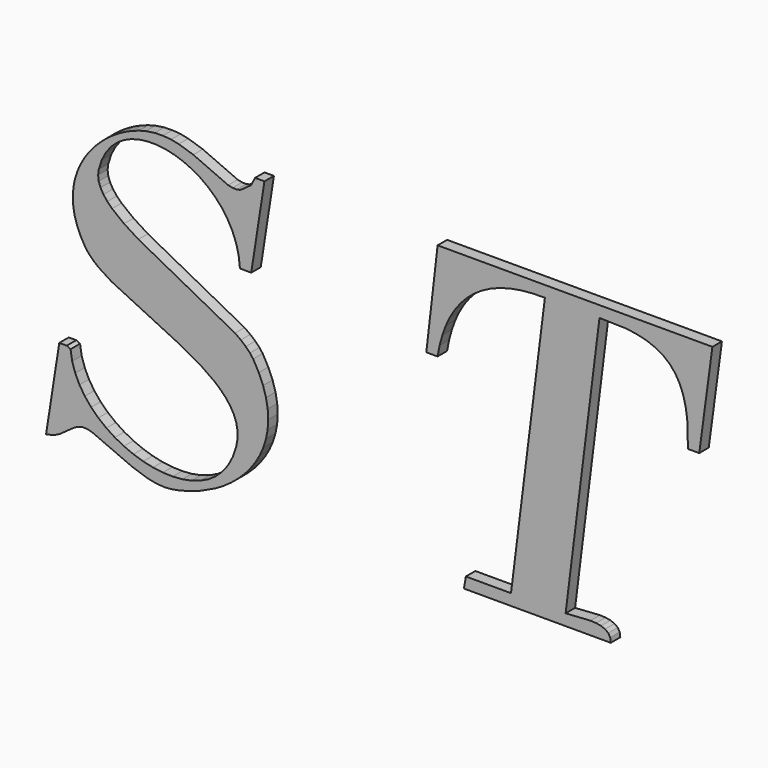
from build123d import *

# Parameters (mm, degrees)
F1_DEPTH = 0.5


with BuildPart() as f1:
    # F0 (on Front) → F1 (new body)
    with BuildSketch(Plane.XZ):
        Polygon((-0.842776, 2.838237), (-0.288454, 6.401714), (-0.684084, 6.401714), (-0.842531, 6.08482), (-1.159181, 5.84727), (-1.29883, 5.757671), (-1.455324, 5.719097), (-1.628298, 5.724834), (-1.817629, 5.767681), (-3.283449, 6.414409), (-3.892092, 6.61082), (-4.217653, 6.673931), (-4.557375, 6.704449), (-4.910768, 6.695171), (-5.277589, 6.639263), (-5.566042, 6.562725), (-5.855715, 6.459331), (-6.143556, 6.330303), (-6.426637, 6.17686), (-6.701784, 6.000591), (-6.966066, 5.802593), (-7.216311, 5.584209), (-7.449465, 5.346904), (-7.662721, 5.091655), (-7.852663, 4.820171), (-8.016603, 4.53355), (-8.151247, 4.233135), (-8.253786, 3.920391), (-8.320803, 3.596416), (-8.349611, 3.262554), (-8.337038, 2.920147), (-8.280031, 2.570659), (-8.175417, 2.215068), (-8.020387, 1.855205), (-7.811769, 1.491924), (-7.665041, 1.30186), (-7.479006, 1.118267), (-7.257448, 0.940288), (-6.723757, 0.597393), (-3.962038, -0.742329), (-2.950686, -1.30019), (-2.369631, -1.709614), (-2.118776, -1.928486), (-1.899904, -2.1581), (-1.716677, -2.399434), (-1.573244, -2.65334), (-1.473513, -2.920796), (-1.421511, -3.2029), (-1.420901, -3.500386), (-1.475954, -3.814595), (-1.620363, -4.23769), (-1.814821, -4.606099), (-2.054079, -4.921528), (-2.333254, -5.185444), (-2.647341, -5.399312), (-2.990969, -5.564839), (-3.359255, -5.683369), (-3.747072, -5.756733), (-4.149172, -5.786274), (-4.560793, -5.773579), (-4.976564, -5.720112), (-5.391482, -5.627583), (-5.800661, -5.497456), (-6.19861, -5.331318), (-6.580568, -5.130635), (-6.941164, -4.896992), (-7.275637, -4.631855), (-7.578859, -4.336811), (-7.845461, -4.013569), (-8.070558, -3.663472), (-8.249025, -3.288227), (-8.375734, -2.88918), (-8.445681, -2.468281), (-8.604006, -2.38918), (-8.920412, -2.38918), (-9.474733, -5.952534), (-9.24219, -5.90334), (-9.049684, -5.833272), (-8.886476, -5.746968), (-8.309084, -5.335347), (-8.128786, -5.239765), (-7.966555, -5.189839), (-7.774782, -5.193012), (-7.556154, -5.240864), (-5.835939, -5.986225), (-5.172609, -6.204609), (-4.836549, -6.269795), (-4.500978, -6.294209), (-4.168947, -6.269306), (-3.789919, -6.195088), (-3.044801, -5.965596), (-2.336428, -5.635151), (-2.003176, -5.43459), (-1.687624, -5.211811), (-1.392946, -4.967915), (-1.12195, -4.703755), (-0.877321, -4.42043), (-0.662111, -4.118916), (-0.479128, -3.800435), (-0.331545, -3.465596), (-0.221925, -3.115864), (-0.1532, -2.751973), (-0.128298, -2.375141), (-0.15027, -1.986226), (-0.221925, -1.586079), (-0.346071, -1.176045), (-0.525759, -0.756978), (-0.763674, -0.329976), (-0.896975, -0.151143), (-1.071169, 0.02647), (-1.282229, 0.203228), (-1.526125, 0.379253), (-5.589113, 2.529277), (-6.194582, 2.91148), (-6.695681, 3.305767), (-6.89734, 3.508037), (-7.060915, 3.71397), (-7.182741, 3.923931), (-7.258791, 4.138286), (-7.285036, 4.357036), (-7.257692, 4.580425), (-7.129396, 4.971904), (-6.953371, 5.309551), (-6.734987, 5.594951), (-6.478884, 5.829326), (-6.190798, 6.013897), (-5.875368, 6.150127), (-5.537966, 6.239238), (-5.183718, 6.282695), (-4.817629, 6.281841), (-4.444826, 6.237896), (-4.070558, 6.152202), (-3.699953, 6.026103), (-3.337892, 5.861065), (-2.989748, 5.658306), (-2.660647, 5.419048), (-2.355593, 5.144756), (-2.079592, 4.836895), (-1.838015, 4.496563), (-1.635988, 4.125103), (-1.478518, 3.724102), (-1.370607, 3.294536), (-1.317629, 2.838237), align=None)
        Polygon((18.56018, 6.401714), (6.998045, 6.401714), (6.522948, 2.283916), (6.997678, 2.283916), (7.083373, 2.724346), (7.198119, 3.14207), (7.342038, 3.535625), (7.515624, 3.903911), (7.719358, 4.245464), (7.953733, 4.559185), (8.219115, 4.843853), (8.515989, 5.098247), (8.844725, 5.321025), (9.205808, 5.511089), (9.59973, 5.667217), (10.026853, 5.787944), (10.48767, 5.872417), (10.982543, 5.91917), (11.512205, 5.926738), (10.086424, -5.477803), (8.186033, -5.477803), (8.106932, -5.952534), (14.283567, -5.952534), (14.258787, -5.764424), (14.176512, -5.622944), (14.044554, -5.522236), (13.870725, -5.456806), (13.662841, -5.420552), (13.428464, -5.407978), (12.383055, -5.477559), (13.808714, 5.92686), (14.913207, 5.901104), (15.384154, 5.834942), (15.802977, 5.731182), (16.171874, 5.588481), (16.49243, 5.404888), (16.766356, 5.17918), (16.995726, 4.909526), (17.181882, 4.594585), (17.327025, 4.232646), (17.432738, 3.822124), (17.50073, 3.361431), (17.531247, 2.283916), (18.005857, 2.283916), align=None)
    extrude(amount=F1_DEPTH)


solid = f1.part
